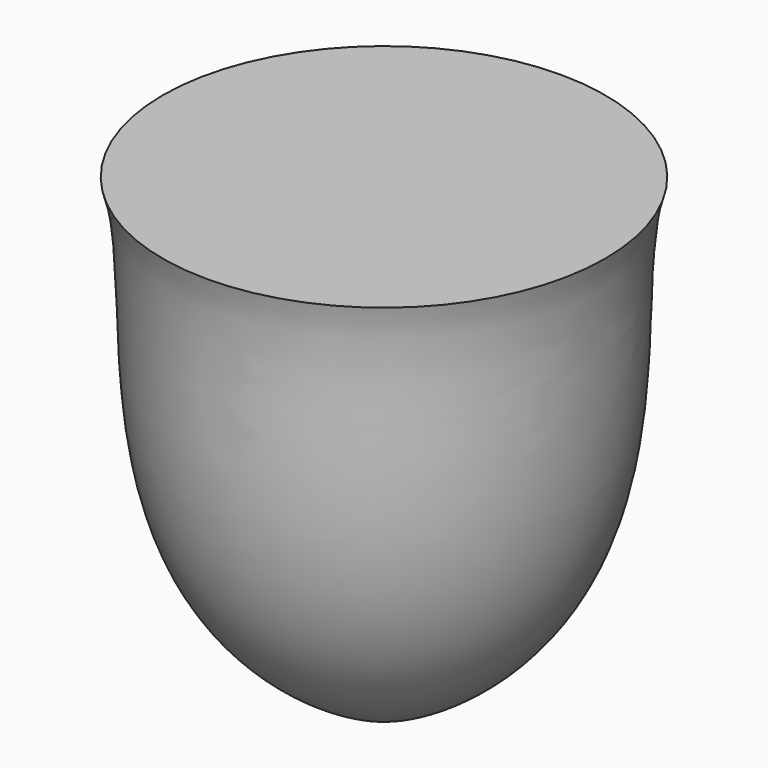
from build123d import *


with BuildPart() as f1:
    # F0 (on Front) → F1 (revolve)
    with BuildSketch(Plane.XZ):
        with BuildLine():
            Line((0, 213.36), (0, 0))
            Line((0, 0), (12.7, 0))
            add(Edge.make_bspline(
                [(12.7, 0), (120.82167, 47.455885), (85.547335, 165.745646), (101.6, 213.36)],
                knots=[0, 0, 0, 0, 231.14, 231.14, 231.14, 231.14], degree=3))
            Line((101.6, 213.36), (0, 213.36))
        make_face()
    revolve(axis=Axis((0, 0, -1.191353), (0, 0, -1)))


solid = f1.part
